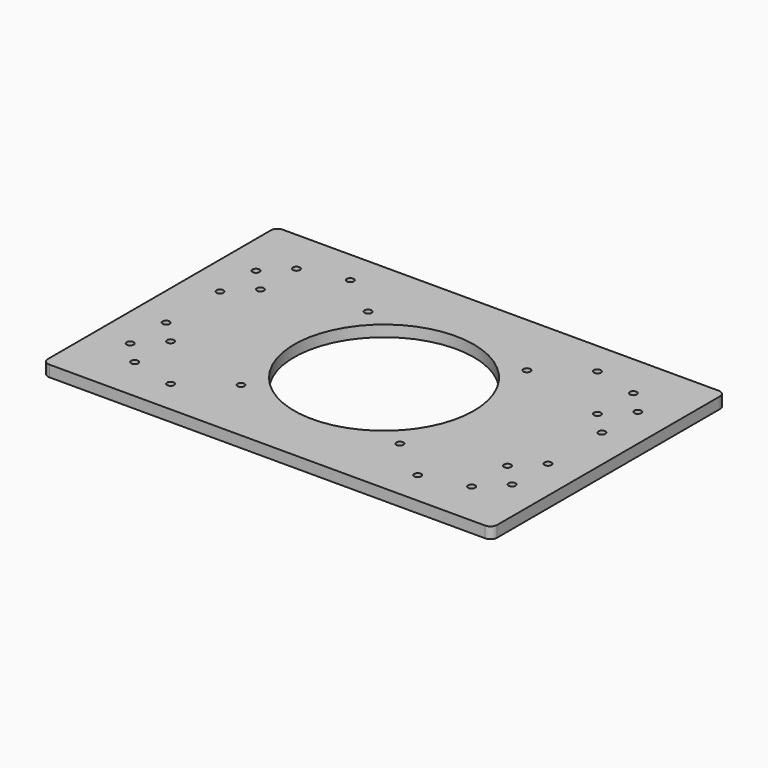
from build123d import *

# Parameters (mm, degrees)
SKETCH_W   = 200
SKETCH_H   = 130
SKETCH_R   = 40
SKETCH_R_2 = 1.5625
PAD_DEPTH  = 5
FILLET_R   = 3


with BuildPart() as part:
    # Sketch → Pad (new body)
    with BuildSketch(Plane.XY):
        with Locations((100, 65)):
            Rectangle(SKETCH_W, SKETCH_H)
        with Locations((100, 65)):
            Circle(SKETCH_R, mode=Mode.SUBTRACT)
        with Locations((45, 115)):
            Circle(SKETCH_R_2, mode=Mode.SUBTRACT)
        with Locations((45, 15)):
            Circle(SKETCH_R_2, mode=Mode.SUBTRACT)
        with Locations((155, 115)):
            Circle(SKETCH_R_2, mode=Mode.SUBTRACT)
        with Locations((155, 15)):
            Circle(SKETCH_R_2, mode=Mode.SUBTRACT)
        with Locations((185, 30)):
            Circle(SKETCH_R_2, mode=Mode.SUBTRACT)
        with Locations((135.353085, 100.338453)):
            Circle(SKETCH_R_2, mode=Mode.SUBTRACT)
        with Locations((64.627773, 29.642413)):
            Circle(SKETCH_R_2, mode=Mode.SUBTRACT)
        with Locations((64.64463, 100.35537)):
            Circle(SKETCH_R_2, mode=Mode.SUBTRACT)
        with Locations((135.352442, 29.63292)):
            Circle(SKETCH_R_2, mode=Mode.SUBTRACT)
        with Locations((175, 20)):
            Circle(SKETCH_R_2, mode=Mode.SUBTRACT)
        with Locations((175, 40)):
            Circle(SKETCH_R_2, mode=Mode.SUBTRACT)
        with Locations((185, 50)):
            Circle(SKETCH_R_2, mode=Mode.SUBTRACT)
        with Locations((175, 90)):
            Circle(SKETCH_R_2, mode=Mode.SUBTRACT)
        with Locations((175, 110)):
            Circle(SKETCH_R_2, mode=Mode.SUBTRACT)
        with Locations((185, 80)):
            Circle(SKETCH_R_2, mode=Mode.SUBTRACT)
        with Locations((185, 100)):
            Circle(SKETCH_R_2, mode=Mode.SUBTRACT)
        with Locations((15, 30)):
            Circle(SKETCH_R_2, mode=Mode.SUBTRACT)
        with Locations((25, 20)):
            Circle(SKETCH_R_2, mode=Mode.SUBTRACT)
        with Locations((25, 40)):
            Circle(SKETCH_R_2, mode=Mode.SUBTRACT)
        with Locations((15, 50)):
            Circle(SKETCH_R_2, mode=Mode.SUBTRACT)
        with Locations((25, 90)):
            Circle(SKETCH_R_2, mode=Mode.SUBTRACT)
        with Locations((25, 110)):
            Circle(SKETCH_R_2, mode=Mode.SUBTRACT)
        with Locations((15, 80)):
            Circle(SKETCH_R_2, mode=Mode.SUBTRACT)
        with Locations((15, 100)):
            Circle(SKETCH_R_2, mode=Mode.SUBTRACT)
    extrude(amount=PAD_DEPTH)

    # Fillet
    fillet_edges = [part.edges().sort_by_distance(p)[0] for p in [
        (0, 0, 2.5),
        (200, 0, 2.5),
        (200, 130, 2.5),
        (0, 130, 2.5),
    ]]
    fillet(fillet_edges, radius=FILLET_R)


solid = part.part
